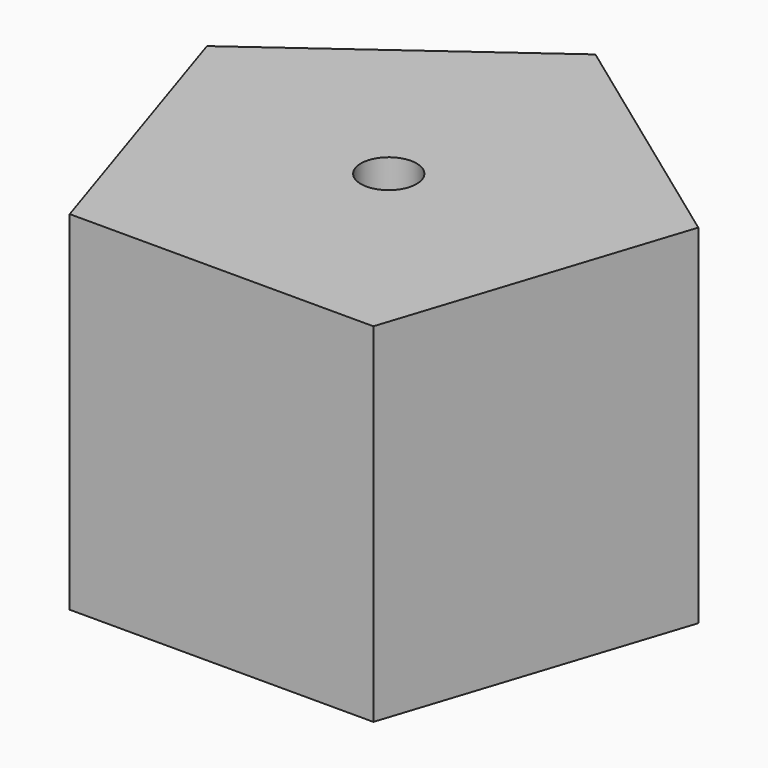
from build123d import *

# Parameters (mm, degrees)
F0_R     = 2
F1_DEPTH = 25


with BuildPart() as f1:
    # F0 (on Top) → F1 (new body)
    with BuildSketch(Plane.XY):
        Polygon((0, 18.54102), (-17.633558, 5.72949), (-10.898138, -15), (10.898138, -15), (17.633558, 5.72949), align=None)
        Circle(F0_R, mode=Mode.SUBTRACT)
    extrude(amount=F1_DEPTH)


solid = f1.part
